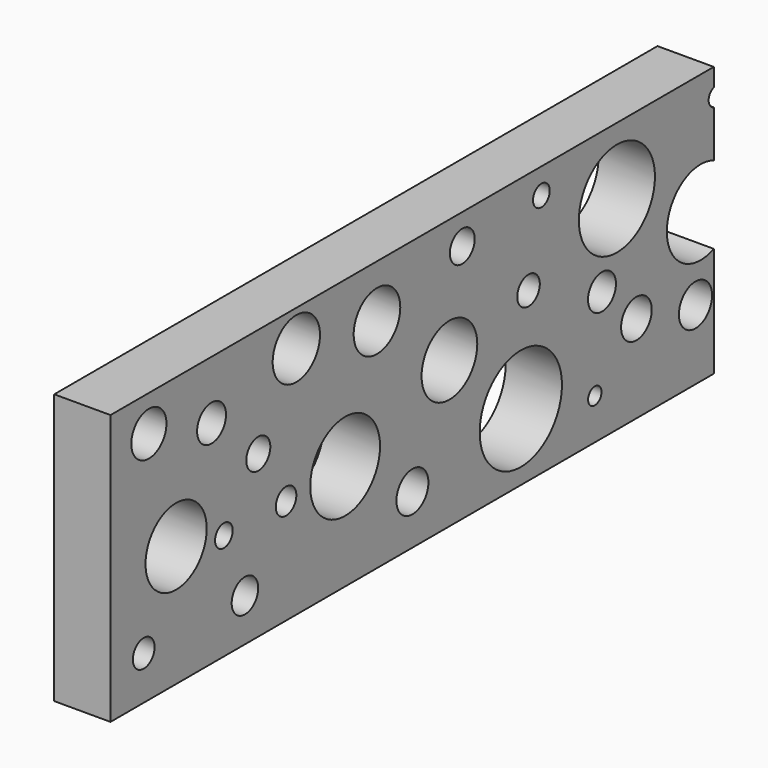
from build123d import *

# Parameters (mm, degrees)
F0_W     = 127
F0_H     = 1701.8
F1_DEPTH = 609.6
F2_R     = 49.571578
F2_R_2   = 86.287468
F2_R_3   = 37.40042
F2_R_4   = 33.925797
F2_R_5   = 40.836616
F2_R_6   = 30.708768
F2_R_7   = 98.46288
F2_R_8   = 66.680675
F2_R_9   = 78.553501
F2_R_10  = 65.712988
F2_R_11  = 45.136258
F2_R_12  = 116.029548
F2_R_13  = 31.817285
F2_R_14  = 35.082311
F2_R_15  = 107.331726
F2_R_16  = 23.59188
F2_R_17  = 39.42352
F2_R_18  = 43.234926
F2_R_19  = 18.895729
F2_R_20  = 95.308714
F2_R_21  = 20.901186
F2_R_22  = 46.736541
F2_R_23  = 24.93364
F2_R_24  = 29.020965
F3_DEPTH = 127


with BuildPart() as f1:
    # F0 (on Top) → F1 (new body)
    with BuildSketch(Plane.XY):
        with Locations((-44.434733, -54.129774)):
            Rectangle(F0_W, F0_H)
    extrude(amount=F1_DEPTH)

    # F2 (on face) → F3 (cut)
    with BuildSketch(Plane.YZ.offset(19.065267)):
        with Locations((-796.770334, 528.649688)):
            Circle(F2_R)
        with Locations((-719.960749, 273.583889)):
            Circle(F2_R_2)
        with Locations((-525.762916, 96.77688)):
            Circle(F2_R_3)
        with Locations((-488.082707, 363.43661)):
            Circle(F2_R_4)
        with Locations((-619.963348, 477.926403)):
            Circle(F2_R_5)
        with Locations((-811.262727, 98.226108)):
            Circle(F2_R_6)
        with Locations((-243.161529, 238.80218)):
            Circle(F2_R_7)
        with Locations((-380.839139, 528.649688)):
            Circle(F2_R_8)
        with Locations((51.033735, 330.104142)):
            Circle(F2_R_9)
        with Locations((-153.308794, 490.969539)):
            Circle(F2_R_10)
        with Locations((-53.311389, 111.269251)):
            Circle(F2_R_11)
        with Locations((252.477765, 151.847914)):
            Circle(F2_R_12)
        with Locations((274.216324, 377.929002)):
            Circle(F2_R_13)
        with Locations((87.264672, 541.692853)):
            Circle(F2_R_14)
        with Locations((523.485243, 459.086299)):
            Circle(F2_R_15)
        with Locations((310.447305, 551.837504)):
            Circle(F2_R_16)
        with Locations((481.457323, 290.974736)):
            Circle(F2_R_17)
        with Locations((578.556299, 198.223516)):
            Circle(F2_R_18)
        with Locations((461.168051, 92.429169)):
            Circle(F2_R_19)
        with Locations((759.710968, 335.901111)):
            Circle(F2_R_20)
        with Locations((803.188145, 548.939049)):
            Circle(F2_R_21)
        with Locations((745.218575, 157.644853)):
            Circle(F2_R_22)
        with Locations((-585.181653, 240.251422)):
            Circle(F2_R_23)
        with Locations((-409.823865, 237.352937)):
            Circle(F2_R_24)
    extrude(amount=-F3_DEPTH, mode=Mode.SUBTRACT)


solid = f1.part
